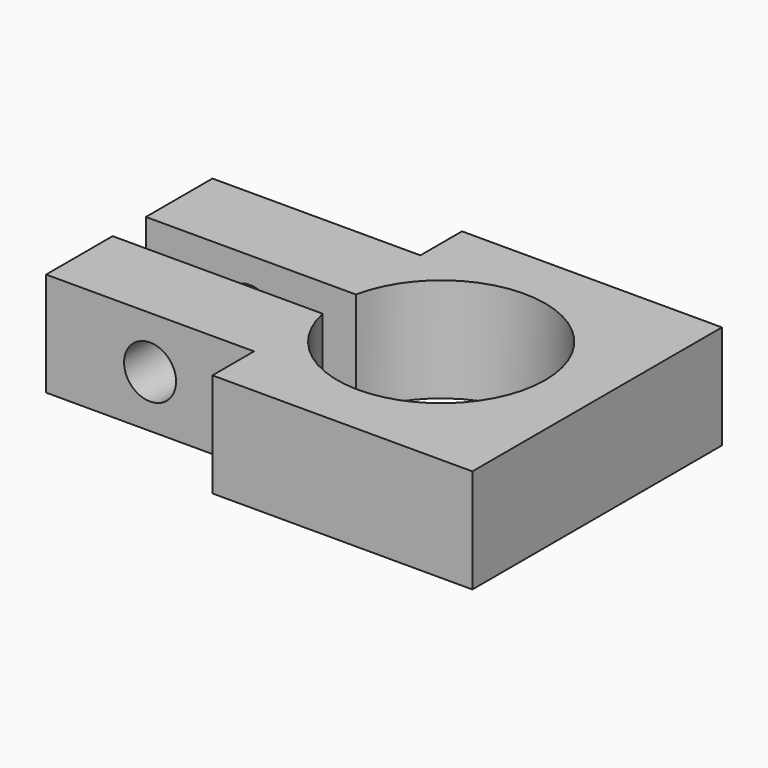
from build123d import *

# Parameters (mm, degrees)
CYLINDER001_R          = 2.5
CYLINDER001_DEPTH      = 30
CYLINDER001_ROLL_ANGLE = -90
BOX001_W               = 25
BOX001_H               = 4
BOX001_DEPTH           = 10
BOX002_W               = 20
BOX002_H               = 5
BOX002_DEPTH           = 10
BOX003_W               = 20
BOX003_H               = 5
BOX003_DEPTH           = 10
CYLINDER_R             = 10
CYLINDER_DEPTH         = 10
BOX_W                  = 45
BOX_H                  = 30
BOX_DEPTH              = 10


with BuildPart() as cylinder001:
    # Cylinder001 → Cylinder001 (new body)
    with BuildSketch(Plane.XY):
        Circle(CYLINDER001_R)
    extrude(amount=CYLINDER001_DEPTH)


with BuildPart() as cylinder001_1:
    # Cylinder001 roll: moved
    add(cylinder001.part.rotate(Axis((0, 0, 0), (1, 0, 0)), CYLINDER001_ROLL_ANGLE))


with BuildPart() as cylinder001_2:
    # Cylinder001 placement: moved
    add(cylinder001_1.part.moved(Location((-20, -15, 0))))


with BuildPart() as cube001:
    # Box001 → Box001 (new body)
    with BuildSketch(Plane(origin=(-30, -2, -5), x_dir=(1, 0, 0), z_dir=(0, 0, 1))):
        with Locations((12.5, 2)):
            Rectangle(BOX001_W, BOX001_H)
    extrude(amount=BOX001_DEPTH)


with BuildPart() as cube002:
    # Box002 → Box002 (new body)
    with BuildSketch(Plane(origin=(-30, -15, -5), x_dir=(1, 0, 0), z_dir=(0, 0, 1))):
        with Locations((10, 2.5)):
            Rectangle(BOX002_W, BOX002_H)
    extrude(amount=BOX002_DEPTH)


with BuildPart() as cube003:
    # Box003 → Box003 (new body)
    with BuildSketch(Plane(origin=(-30, 10, -5), x_dir=(1, 0, 0), z_dir=(0, 0, 1))):
        with Locations((10, 2.5)):
            Rectangle(BOX003_W, BOX003_H)
    extrude(amount=BOX003_DEPTH)


with BuildPart() as negative_fusion:
    # Cylinder → Cylinder (new body)
    with BuildSketch(Plane.XY.offset(-5)):
        Circle(CYLINDER_R)
    extrude(amount=CYLINDER_DEPTH)

    # Fusion: union Cylinder001, Cube001, Cube002, Cube003
    add(cylinder001_2.part)
    add(cube001.part)
    add(cube002.part)
    add(cube003.part)


with BuildPart() as cut:
    # Box → Box (new body)
    with BuildSketch(Plane(origin=(-30, -15, -5), x_dir=(1, 0, 0), z_dir=(0, 0, 1))):
        with Locations((22.5, 15)):
            Rectangle(BOX_W, BOX_H)
    extrude(amount=BOX_DEPTH)

    # Cut: cut Negative Fusion
    add(negative_fusion.part, mode=Mode.SUBTRACT)


solid = cut.part
